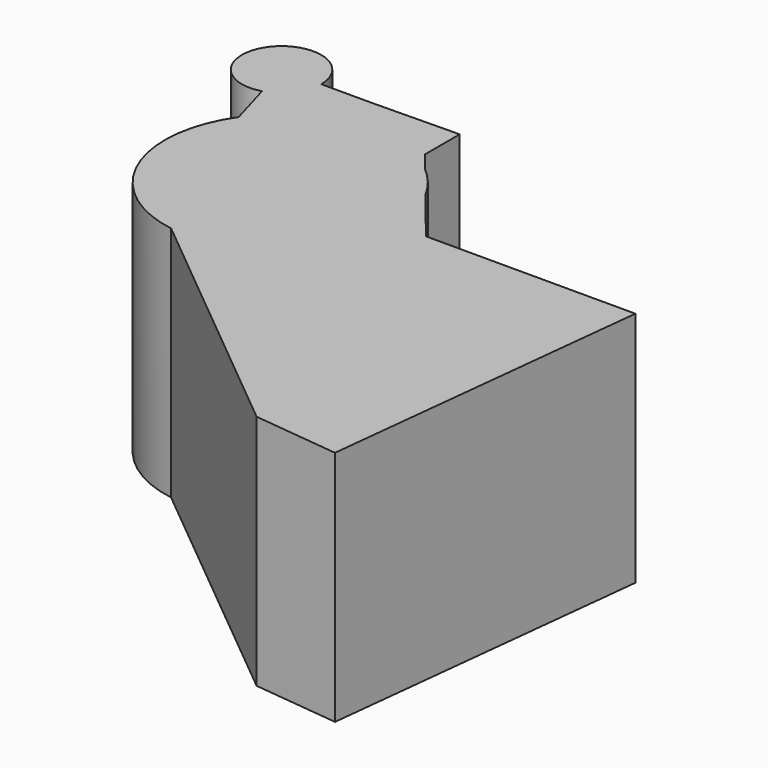
from build123d import *

# Parameters (mm, degrees)
F1_DEPTH = 25.4


with BuildPart() as f1:
    # F0 (on Top) → F1 (new body)
    with BuildSketch(Plane.XY):
        with BuildLine():
            ThreePointArc((-11.5280862518, 11.9740771452), (-9.3060450139, 13.5026289487), (-8.4506276376, 16.0604012199))
            Line((-8.4506276376, 16.0604012199), (-12.7023169771, 16.0604012199))
            Line((-12.7023169771, 16.0604012199), (-11.5280862518, 11.9740771452))
        make_face()
        with BuildLine():
            Line((-12.7023169771, 16.0604012199), (-8.4506276376, 16.0604012199))
            ThreePointArc((-8.4506276376, 16.0604012199), (-16.0985889403, 18.618173491), (-11.5280862518, 11.9740771452))
            Line((-11.5280862518, 11.9740771452), (-12.7023169771, 16.0604012199))
        make_face()
        with BuildLine():
            Line((-5.4021365941, -9.3442336656), (-10.1231343538, 7.0848431638))
            ThreePointArc((-10.1231343538, 7.0848431638), (-11.3732597099, -4.8292665459), (-1.9327933728, -12.2039813823))
            Line((-1.9327933728, -12.2039813823), (-5.4021365941, -9.3442336656))
        make_face()
        with BuildLine():
            Line((10.8841579252, 5.848756967), (7.9799911964, 9.4335885169))
            ThreePointArc((7.9799911964, 9.4335885169), (-1.5897851527, 12.2533846332), (-10.1231343538, 7.0848431638))
            Line((-10.1231343538, 7.0848431638), (-5.4021365941, -9.3442336656))
            Line((-5.4021365941, -9.3442336656), (12.2656914725, -1.4918661143))
            ThreePointArc((12.2656914725, -1.4918661143), (12.3334663781, -0.747301078), (12.3560856181, 0))
            ThreePointArc((12.3560856181, 0), (11.9824546526, 3.0155650048), (10.8841579252, 5.848756967))
        make_face()
        with BuildLine():
            ThreePointArc((10.8841579252, 5.848756967), (9.6008741702, 7.7779217642), (7.9799911964, 9.4335885169))
            Line((7.9799911964, 9.4335885169), (10.8841579252, 5.848756967))
        make_face()
        with BuildLine():
            Line((12.2656914725, -1.4918661143), (-5.4021365941, -9.3442336656))
            Line((-5.4021365941, -9.3442336656), (-1.9327933728, -12.2039813823))
            ThreePointArc((-1.9327933728, -12.2039813823), (7.441743691, -9.8637367482), (12.2656914725, -1.4918661143))
        make_face()
        with BuildLine():
            Line((6.2781586312, 14.0163511969), (-3.0660787597, 16.0604012199))
            Line((-3.0660787597, 16.0604012199), (-8.4506276376, 16.0604012199))
            ThreePointArc((-8.4506276376, 16.0604012199), (-9.3060450139, 13.5026289487), (-11.5280862518, 11.9740771452))
            Line((-11.5280862518, 11.9740771452), (-10.1231343538, 7.0848431638))
            ThreePointArc((-10.1231343538, 7.0848431638), (-1.5897851527, 12.2533846332), (7.9799911964, 9.4335885169))
            Line((7.9799911964, 9.4335885169), (6.2781586312, 11.5342885256))
            Line((6.2781586312, 11.5342885256), (6.2781586312, 14.0163511969))
        make_face()
        Polygon((6.2781586312, 16.2064060569), (-3.0660787597, 16.0604012199), (6.2781586312, 14.0163511969), align=None)
        with BuildLine():
            Line((15.6223904341, 0), (10.8841579252, 5.848756967))
            ThreePointArc((10.8841579252, 5.848756967), (11.9824546526, 3.0155650048), (12.3560856181, 0))
            ThreePointArc((12.3560856181, 0), (12.3334663781, -0.747301078), (12.2656914725, -1.4918661143))
            Line((12.2656914725, -1.4918661143), (15.6223904341, 0))
        make_face()
        with BuildLine():
            ThreePointArc((12.2656914725, -1.4918661143), (7.441743691, -9.8637367482), (-1.9327933728, -12.2039813823))
            Line((-1.9327933728, -12.2039813823), (24.9841175973, -34.3913435936))
            Line((24.9841175973, -34.3913435936), (34.1954171008, -35.400799596))
            Line((34.1954171008, -35.400799596), (38.0749511044, 0))
            Line((38.0749511044, 0), (15.6223904341, 0))
            Line((15.6223904341, 0), (12.2656914725, -1.4918661143))
        make_face()
    extrude(amount=F1_DEPTH)


solid = f1.part
